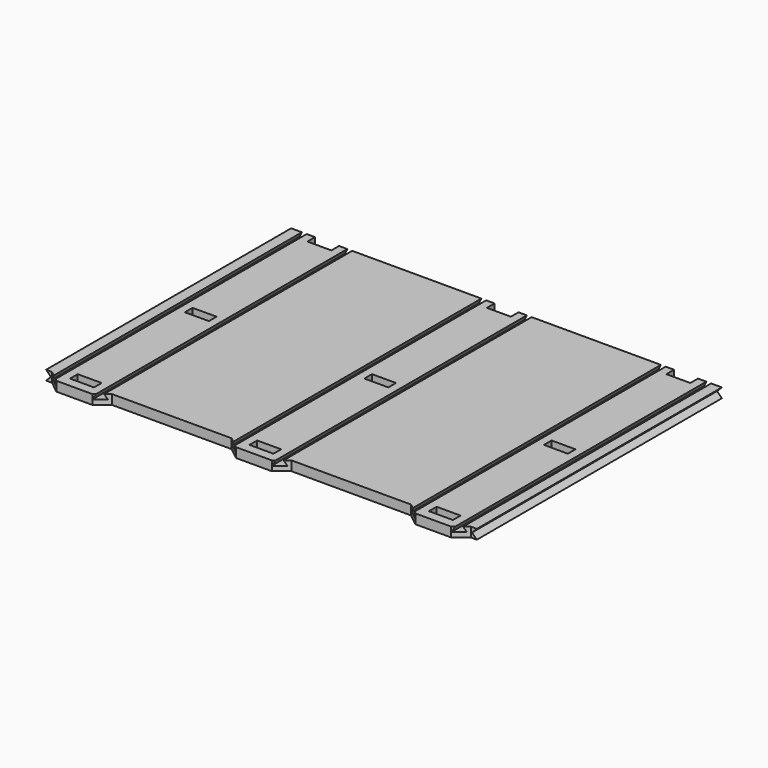
from build123d import *

# Parameters (mm, degrees)
SKETCH005_W          = 180
SKETCH005_H          = 132
SKETCH003_W          = 176
SKETCH003_H          = 132
SKETCH004_W          = 180
SKETCH004_H          = 132
SKETCH_W             = 10
SKETCH_H             = 4
POCKET_DEPTH         = 2.001
POCKET_DEPTH_BACK    = 2.001
SKETCH001_W          = 10
SKETCH001_H          = 4
POCKET001_DEPTH      = 2.001
POCKET001_DEPTH_BACK = 2.001
SKETCH002_W          = 10
SKETCH002_H          = 4
POCKET002_DEPTH      = 2.001
POCKET002_DEPTH_BACK = 2.001
POCKET003_DEPTH      = 128.001
POCKET003_DEPTH_BACK = 4.001
POCKET004_DEPTH      = 128.001
POCKET004_DEPTH_BACK = 4.001
POCKET005_DEPTH      = 128.001
POCKET005_DEPTH_BACK = 4.001
FILLET_R             = 1
POCKET006_DEPTH      = 2.001
POCKET006_DEPTH_BACK = 2.001


with BuildPart() as part:
    # Sketch005 (on DatumPlane) → AdditiveLoft section 0
    with BuildSketch(Plane.XY.offset(-2)):
        with Locations((0, 62)):
            Rectangle(SKETCH005_W, SKETCH005_H)
    # Sketch003 → AdditiveLoft section 1
    with BuildSketch(Plane.XY):
        with Locations((0, 62)):
            Rectangle(SKETCH003_W, SKETCH003_H)
    # Sketch004 (on DatumPlane) → AdditiveLoft section 2
    with BuildSketch(Plane.XY.offset(2)):
        with Locations((0, 62)):
            Rectangle(SKETCH004_W, SKETCH004_H)
    loft(ruled=True)

    # Sketch → Pocket (cut, two sides)
    with BuildSketch(Plane.XY) as pocket_sk:
        with Locations((-75, 2)):
            Rectangle(SKETCH_W, SKETCH_H)
        with Locations((0, 2)):
            Rectangle(SKETCH_W, SKETCH_H)
        with Locations((75, 2)):
            Rectangle(SKETCH_W, SKETCH_H)
    extrude(amount=-POCKET_DEPTH, mode=Mode.SUBTRACT)
    extrude(pocket_sk.sketch, amount=POCKET_DEPTH_BACK, mode=Mode.SUBTRACT)

    # Sketch001 (on DatumPlane) → Pocket001 (cut, two sides)
    with BuildSketch(Plane(origin=(0, 60, 0), x_dir=(1, 0, 0), z_dir=(0, 0, 1))) as pocket001_sk:
        with Locations((-75, 2)):
            Rectangle(SKETCH001_W, SKETCH001_H)
        with Locations((0, 2)):
            Rectangle(SKETCH001_W, SKETCH001_H)
        with Locations((75, 2)):
            Rectangle(SKETCH001_W, SKETCH001_H)
    extrude(amount=-POCKET001_DEPTH, mode=Mode.SUBTRACT)
    extrude(pocket001_sk.sketch, amount=POCKET001_DEPTH_BACK, mode=Mode.SUBTRACT)

    # Sketch002 (on DatumPlane) → Pocket002 (cut, two sides)
    with BuildSketch(Plane(origin=(0, 124, 0), x_dir=(1, 0, 0), z_dir=(0, 0, 1))) as pocket002_sk:
        with Locations((-75, 2)):
            Rectangle(SKETCH002_W, SKETCH002_H)
        with Locations((0, 2)):
            Rectangle(SKETCH002_W, SKETCH002_H)
        with Locations((75, 2)):
            Rectangle(SKETCH002_W, SKETCH002_H)
    extrude(amount=-POCKET002_DEPTH, mode=Mode.SUBTRACT)
    extrude(pocket002_sk.sketch, amount=POCKET002_DEPTH_BACK, mode=Mode.SUBTRACT)

    # Sketch006 → Pocket003 (cut, two sides)
    with BuildSketch(Plane.XZ) as pocket003_sk:
        Polygon((-11.5, 0), (-7.5, 0), (-8.5, 2), (-10.5, 2), align=None)
        Polygon((7.5, 0), (11.5, 0), (10.5, 2), (8.5, 2), align=None)
    extrude(amount=-POCKET003_DEPTH, mode=Mode.SUBTRACT)
    extrude(pocket003_sk.sketch, amount=POCKET003_DEPTH_BACK, mode=Mode.SUBTRACT)

    # Sketch007 (on DatumPlane) → Pocket004 (cut, two sides)
    with BuildSketch(Plane(origin=(-75, 0, 0), x_dir=(1, 0, 0), z_dir=(0, -1, 0))) as pocket004_sk:
        Polygon((-11.5, 0), (-7.5, 0), (-8.5, 2), (-10.5, 2), align=None)
        Polygon((7.5, 0), (11.5, 0), (10.5, 2), (8.5, 2), align=None)
    extrude(amount=-POCKET004_DEPTH, mode=Mode.SUBTRACT)
    extrude(pocket004_sk.sketch, amount=POCKET004_DEPTH_BACK, mode=Mode.SUBTRACT)

    # Sketch008 (on DatumPlane) → Pocket005 (cut, two sides)
    with BuildSketch(Plane(origin=(75, 0, 0), x_dir=(1, 0, 0), z_dir=(0, -1, 0))) as pocket005_sk:
        Polygon((-11.5, 0), (-7.5, 0), (-8.5, 2), (-10.5, 2), align=None)
        Polygon((7.5, 0), (11.5, 0), (10.5, 2), (8.5, 2), align=None)
    extrude(amount=-POCKET005_DEPTH, mode=Mode.SUBTRACT)
    extrude(pocket005_sk.sketch, amount=POCKET005_DEPTH_BACK, mode=Mode.SUBTRACT)

    # Fillet
    fillet_edges = [part.edges().sort_by_distance(p)[0] for p in [
        (-70, 2, -2),
        (-80, 2, -2),
        (-5, 2, -2),
        (5, 2, -2),
        (70, 2, -2),
        (80, 2, -2),
        (-80, 62, -2),
        (-70, 62, -2),
        (-5, 62, -2),
        (5, 62, -2),
        (70, 62, -2),
        (80, 62, -2),
        (-80, 126, -2),
        (-70, 126, -2),
        (-5, 126, -2),
        (5, 126, -2),
        (70, 126, -2),
        (80, 126, -2),
    ]]
    fillet(fillet_edges, radius=FILLET_R)

    # Sketch009 → Pocket006 (cut, two sides)
    with BuildSketch(Plane.XY) as pocket006_sk:
        Polygon((-100, 0), (-100, -20), (100, -20), (100, 0), (87.5, 0), (82.5, -4), (67.5, -4), (62.5, 0), (12.5, 0), (7.5, -4), (-7.5, -4), (-12.5, 0), (-62.5, 0), (-67.5, -4), (-82.5, -4), (-87.5, 0), align=None)
    extrude(amount=-POCKET006_DEPTH, mode=Mode.SUBTRACT)
    extrude(pocket006_sk.sketch, amount=POCKET006_DEPTH_BACK, mode=Mode.SUBTRACT)


solid = part.part
